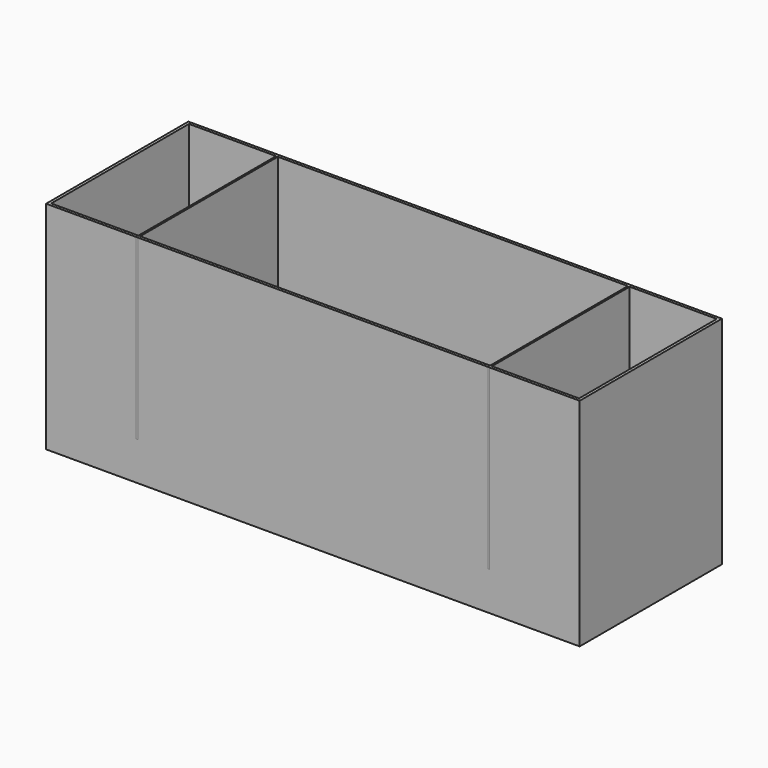
from build123d import *

# Parameters (mm, degrees)
F0_W     = 1500
F0_H     = 500
F0_W_2   = 1484
F0_H_2   = 484
F1_DEPTH = 8
F2_DEPTH = 600
F4_W     = 5
F4_H     = 500
F5_DEPTH = 492


with BuildPart() as f1:
    # F0 (on Top) → F1 (new body)
    with BuildSketch(Plane.XY):
        Rectangle(F0_W, F0_H)
        Rectangle(F0_W_2, F0_H_2, mode=Mode.SUBTRACT)
        Rectangle(F0_W_2, F0_H_2)
    extrude(amount=-F1_DEPTH)


with BuildPart() as f2:
    # F0 (on Top) → F2 (new body)
    with BuildSketch(Plane.XY):
        Rectangle(F0_W, F0_H)
        Rectangle(F0_W_2, F0_H_2, mode=Mode.SUBTRACT)
    extrude(amount=F2_DEPTH)


with BuildPart() as f1_1:
    add(f1.part)

    # F3: union F2
    add(f2.part)


with BuildPart() as f5:
    # F4 (on face) → F5 (new body, through all)
    with BuildSketch(Plane.XZ.offset(250)):
        with Locations((-494.5, 350)):
            Rectangle(F4_W, F4_H)
        with Locations((494.5, 350)):
            Rectangle(F4_W, F4_H)
    extrude(amount=-F5_DEPTH)


solid = Compound([f1_1.part, f5.part])
